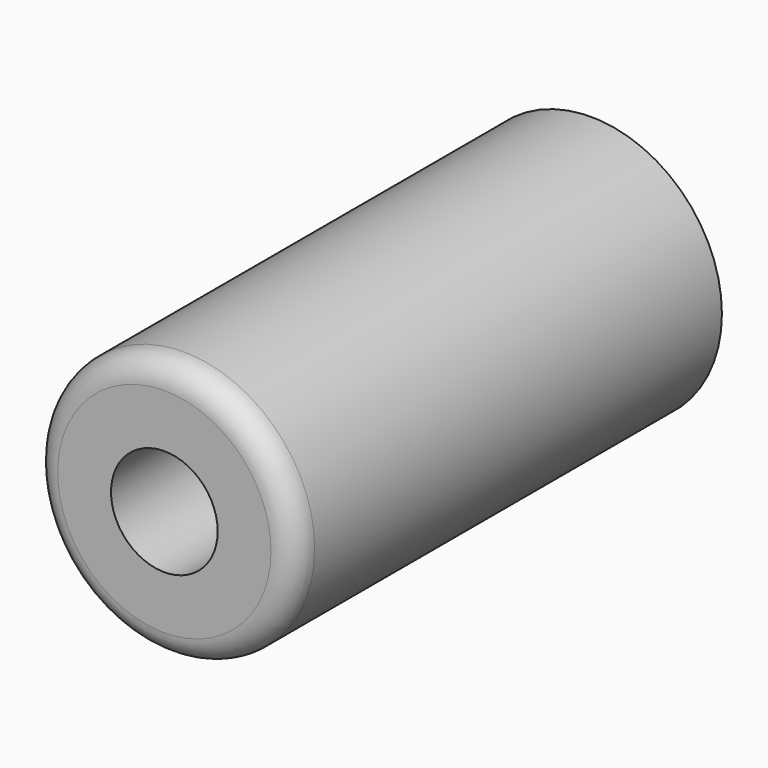
from build123d import *

# Parameters (mm, degrees)
SKETCH051_R     = 2.7
PAD043_DEPTH    = 11
FILLET001_R     = 0.5
SKETCH050_R     = 1.1
POCKET005_DEPTH = 11


with BuildPart() as part:
    # Sketch051 (on Face1 of CopyFillet) → Pad043 (new body)
    with BuildSketch(Plane.XZ.offset(13)):
        Circle(SKETCH051_R)
    extrude(amount=PAD043_DEPTH)

    # Fillet001
    fillet001_edges = [part.edges().sort_by_distance(p)[0] for p in [
        (-2.7, -24, 0),
    ]]
    fillet(fillet001_edges, radius=FILLET001_R)

    # Sketch050 (on Face4 of Fillet001) → Pocket005 (cut)
    with BuildSketch(Plane.XZ.offset(24)):
        Circle(SKETCH050_R)
    extrude(amount=-POCKET005_DEPTH, mode=Mode.SUBTRACT)


solid = part.part
